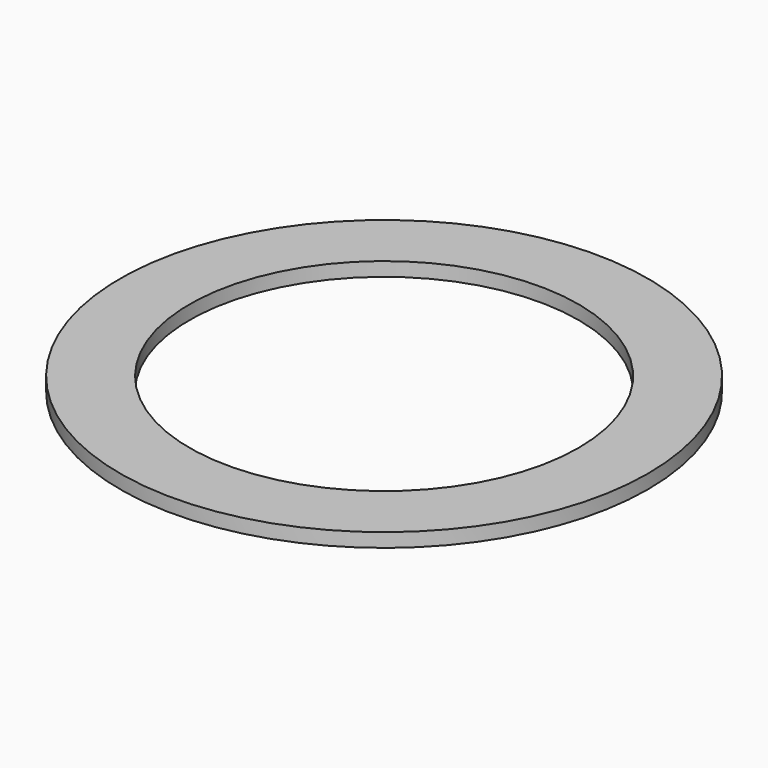
from build123d import *

# Parameters (mm, degrees)
SKETCH_R   = 19
SKETCH_R_2 = 14
PAD_DEPTH  = 1


with BuildPart() as part:
    # Sketch → Pad (new body)
    with BuildSketch(Plane.XY):
        Circle(SKETCH_R)
        Circle(SKETCH_R_2, mode=Mode.SUBTRACT)
    extrude(amount=PAD_DEPTH)


solid = part.part
